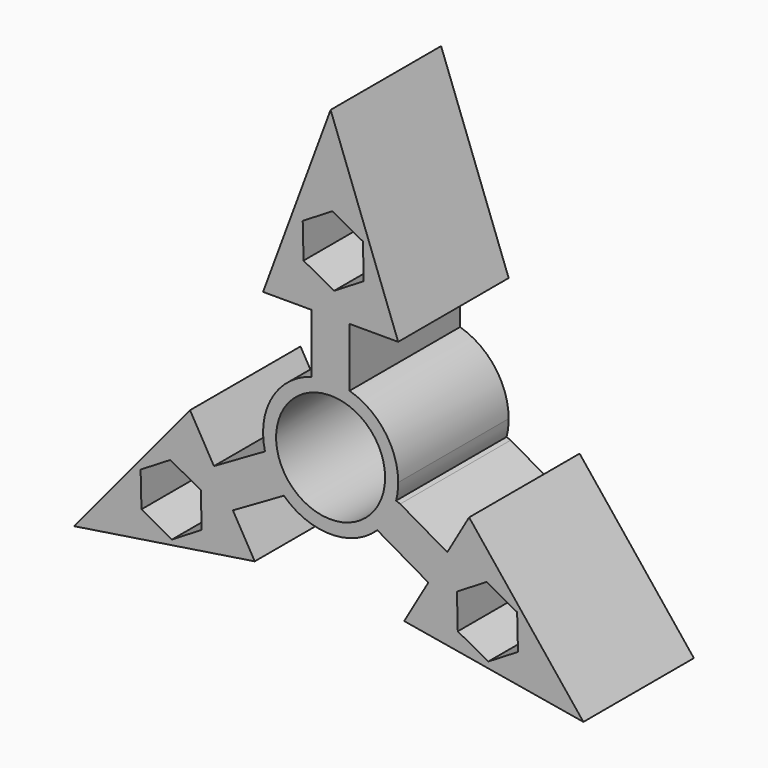
from build123d import *

# Parameters (mm, degrees)
F0_R     = 9.865157
F1_DEPTH = 25


with BuildPart() as f1:
    # F0 (on Front) → F1 (new body)
    with BuildSketch(Plane.XZ):
        with BuildLine():
            ThreePointArc((-3.427112, 11.741537), (0, 12.231467), (3.427112, 11.741537))
            Line((3.427112, 11.741537), (3.427112, 12.56425))
            Line((3.427112, 12.56425), (3.427112, 22.406213))
            Line((3.427112, 22.406213), (12.229432, 22.406213))
            Line((12.229432, 22.406213), (0, 55.397243))
            Line((0, 55.397243), (-12.229432, 22.406213))
            Line((-12.229432, 22.406213), (-3.427112, 22.406213))
            Line((-3.427112, 22.406213), (-3.427112, 12.56425))
            Line((-3.427112, 12.56425), (-3.427112, 11.741537))
        make_face()
        Polygon((5.999969, 30.045177), (0.627875, 26.767383), (-4.896825, 29.780857), (-5.049431, 36.072124), (0.322664, 39.349918), (5.847364, 36.336445), align=None, mode=Mode.SUBTRACT)
        with BuildLine():
            ThreePointArc((-8.454913, -8.838734), (-10.589397, -6.121556), (-11.878826, -2.915866))
            Line((-11.878826, -2.915866), (-12.594515, -3.314159))
            Line((-12.594515, -3.314159), (-21.117905, -8.23514))
            Line((-21.117905, -8.23514), (-25.446913, -0.737079))
            Line((-25.446913, -0.737079), (-46.428616, -26.044891))
            Line((-46.428616, -26.044891), (-13.736432, -21.020227))
            Line((-13.736432, -21.020227), (-17.690794, -14.171072))
            Line((-17.690794, -14.171072), (-9.167404, -9.250091))
            Line((-9.167404, -9.250091), (-8.454913, -8.838734))
        make_face()
        Polygon((-23.342566, -19.131204), (-28.714661, -22.408998), (-34.239361, -19.395524), (-34.391966, -13.104257), (-29.019872, -9.826463), (-23.495171, -12.839936), align=None, mode=Mode.SUBTRACT)
        with BuildLine():
            Line((12.594515, -3.314159), (11.849696, -3.032078))
            ThreePointArc((11.849696, -3.032078), (10.55929, -6.173345), (8.454913, -8.838734))
            Line((8.454913, -8.838734), (9.167404, -9.250091))
            Line((9.167404, -9.250091), (17.690794, -14.171072))
            Line((17.690794, -14.171072), (13.322571, -21.737055))
            Line((13.322571, -21.737055), (45.757505, -27.258412))
            Line((45.757505, -27.258412), (25.072267, -1.385986))
            Line((25.072267, -1.385986), (21.117905, -8.23514))
            Line((21.117905, -8.23514), (12.594515, -3.314159))
        make_face()
        Polygon((28.239391, -10.649653), (33.764091, -13.663127), (33.916697, -19.954394), (28.544602, -23.232188), (23.019902, -20.218715), (22.867297, -13.927447), align=None, mode=Mode.SUBTRACT)
        with BuildLine():
            ThreePointArc((11.849696, -3.032078), (12.135649, -1.528009), (12.231467, 0))
            ThreePointArc((12.231467, 0), (9.785893, 7.337921), (3.427112, 11.741537))
            ThreePointArc((3.427112, 11.741537), (0, 12.231467), (-3.427112, 11.741537))
            ThreePointArc((-3.427112, 11.741537), (-10.596122, 6.109909), (-11.878826, -2.915866))
            ThreePointArc((-11.878826, -2.915866), (-10.589397, -6.121556), (-8.454913, -8.838734))
            ThreePointArc((-8.454913, -8.838734), (0, -12.231467), (8.454913, -8.838734))
            ThreePointArc((8.454913, -8.838734), (10.55929, -6.173345), (11.849696, -3.032078))
        make_face()
        Circle(F0_R, mode=Mode.SUBTRACT)
    extrude(amount=F1_DEPTH)


solid = f1.part
